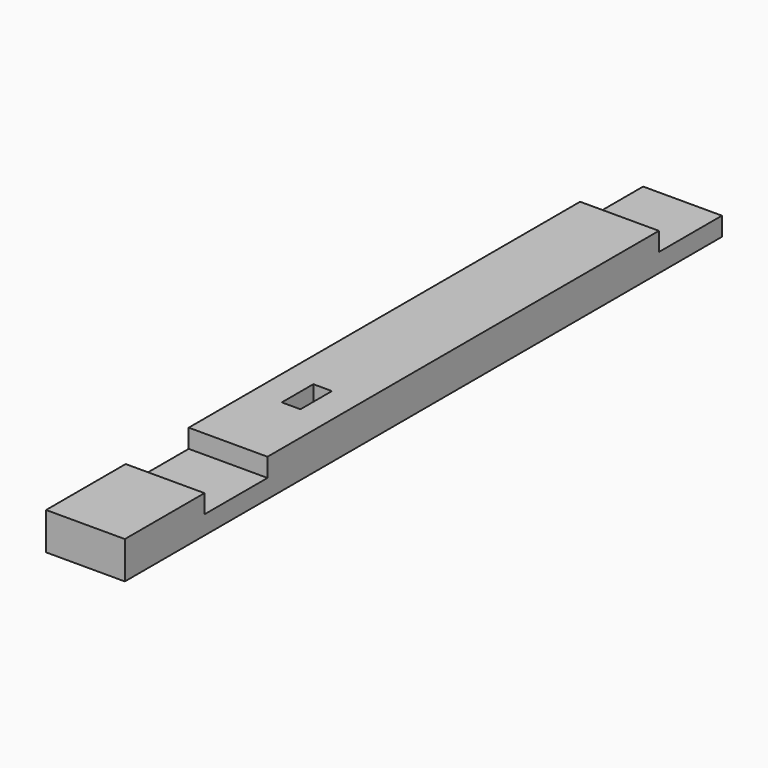
from build123d import *

# Parameters (mm, degrees)
SKETCH_W        = 95
SKETCH_H        = 900
PAD_DEPTH       = 45
SKETCH001_W     = 95
SKETCH001_H     = 95
SKETCH001_W_2   = 22.5
SKETCH001_H_2   = 47.5
POCKET_DEPTH    = 22.5
SKETCH011_W     = 22.5
SKETCH011_H     = 47.5
POCKET006_DEPTH = 22.5


with BuildPart() as part:
    # Sketch → Pad (new body)
    with BuildSketch(Plane.XY):
        with Locations((47.5, 450)):
            Rectangle(SKETCH_W, SKETCH_H)
    extrude(amount=-PAD_DEPTH)

    # Sketch001 (on Face5 of Pad) → Pocket (cut)
    with BuildSketch(Plane.XY):
        with Locations((47.5, 167.5)):
            Rectangle(SKETCH001_W, SKETCH001_H)
        with Locations((47.5, 852.5)):
            Rectangle(SKETCH001_W, SKETCH001_H)
        with Locations((47.5, 333.75)):
            Rectangle(SKETCH001_W_2, SKETCH001_H_2)
    extrude(amount=-POCKET_DEPTH, mode=Mode.SUBTRACT)

    # Sketch011 (on Face4 of Pocket) → Pocket006 (cut)
    with BuildSketch(Plane(origin=(0, 0, -45), x_dir=(1, 0, 0), z_dir=(0, 0, -1))):
        with Locations((47.5, -333.75)):
            Rectangle(SKETCH011_W, SKETCH011_H)
    extrude(amount=-POCKET006_DEPTH, mode=Mode.SUBTRACT)


solid = part.part
